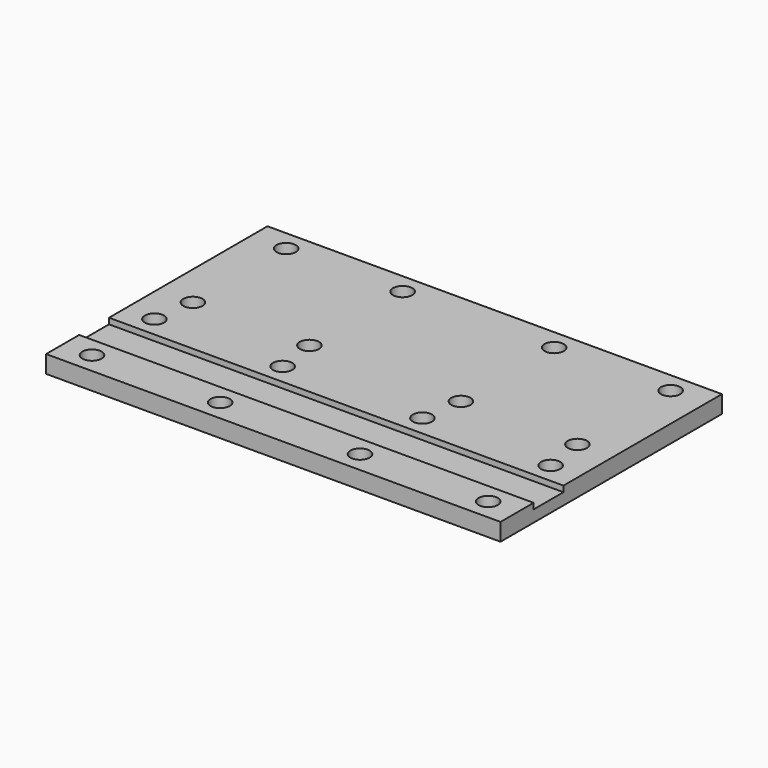
from build123d import *

# Parameters (mm, degrees)
SKETCH_W     = 78
SKETCH_H     = 47.5
SKETCH_R     = 1.65
PAD_DEPTH    = 3
SKETCH001_W  = 105.620613
SKETCH001_H  = 6.4
POCKET_DEPTH = 1


with BuildPart() as part:
    # Sketch → Pad (new body)
    with BuildSketch(Plane.XY):
        with Locations((23, -10.25)):
            Rectangle(SKETCH_W, SKETCH_H)
        with Locations((-10, -10)):
            Circle(SKETCH_R, mode=Mode.SUBTRACT)
        with Locations((-10, 10)):
            Circle(SKETCH_R, mode=Mode.SUBTRACT)
        with Locations((10, 10)):
            Circle(SKETCH_R, mode=Mode.SUBTRACT)
        with Locations((10, -10)):
            Circle(SKETCH_R, mode=Mode.SUBTRACT)
        with Locations((-11, -17)):
            Circle(SKETCH_R, mode=Mode.SUBTRACT)
        with Locations((11, -17)):
            Circle(SKETCH_R, mode=Mode.SUBTRACT)
        with Locations((-11, -30.4)):
            Circle(SKETCH_R, mode=Mode.SUBTRACT)
        with Locations((11, -30.4)):
            Circle(SKETCH_R, mode=Mode.SUBTRACT)
        with Locations((56, -10)):
            Circle(SKETCH_R, mode=Mode.SUBTRACT)
        with Locations((56, 10)):
            Circle(SKETCH_R, mode=Mode.SUBTRACT)
        with Locations((36, 10)):
            Circle(SKETCH_R, mode=Mode.SUBTRACT)
        with Locations((36, -10)):
            Circle(SKETCH_R, mode=Mode.SUBTRACT)
        with Locations((35, -17)):
            Circle(SKETCH_R, mode=Mode.SUBTRACT)
        with Locations((35, -30.4)):
            Circle(SKETCH_R, mode=Mode.SUBTRACT)
        with Locations((57, -17)):
            Circle(SKETCH_R, mode=Mode.SUBTRACT)
        with Locations((57, -30.4)):
            Circle(SKETCH_R, mode=Mode.SUBTRACT)
    extrude(amount=PAD_DEPTH)

    # Sketch001 → Pocket (cut)
    with BuildSketch(Plane.XY.offset(3)):
        with Locations((22.581388, -23.7)):
            Rectangle(SKETCH001_W, SKETCH001_H)
    extrude(amount=-POCKET_DEPTH, mode=Mode.SUBTRACT)


solid = part.part
